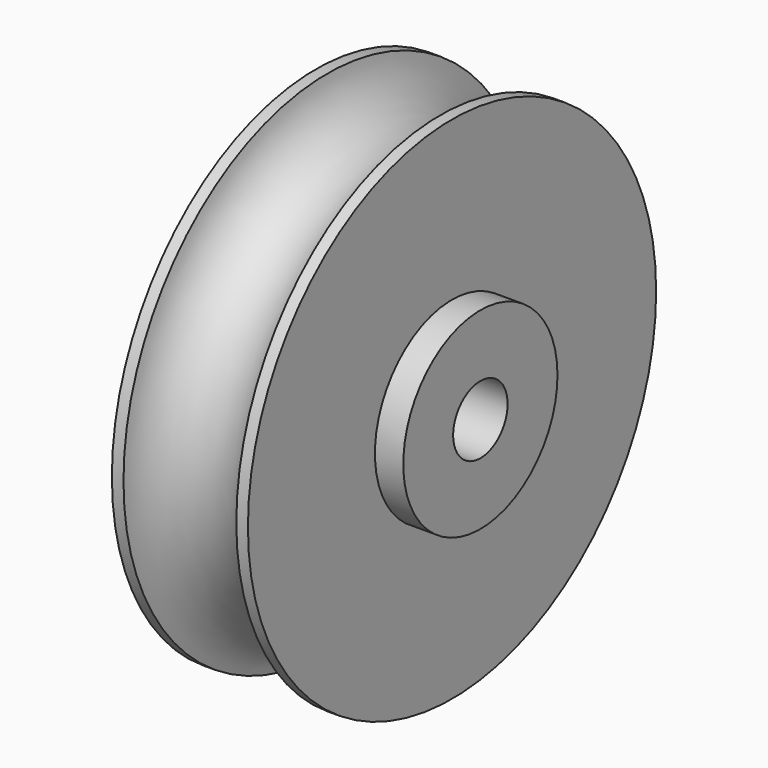
from build123d import *


with BuildPart() as f1:
    # F0 (on Top) → F1 (revolve)
    with BuildSketch(Plane.XY):
        with BuildLine():
            Line((-17, 17), (-17, 6))
            Line((-17, 6), (0, 6))
            Line((0, 6), (17, 6))
            Line((17, 6), (17, 17))
            Line((17, 17), (12, 17))
            Line((12, 17), (12, 45))
            Line((12, 45), (9.949874, 45))
            ThreePointArc((9.949874, 45), (0, 36), (-9.949874, 45))
            Line((-9.949874, 45), (-12, 45))
            Line((-12, 45), (-12, 17))
            Line((-12, 17), (-17, 17))
        make_face()
    revolve(axis=Axis((3.716217, 0, 0), (1, 0, 0)))


solid = f1.part
